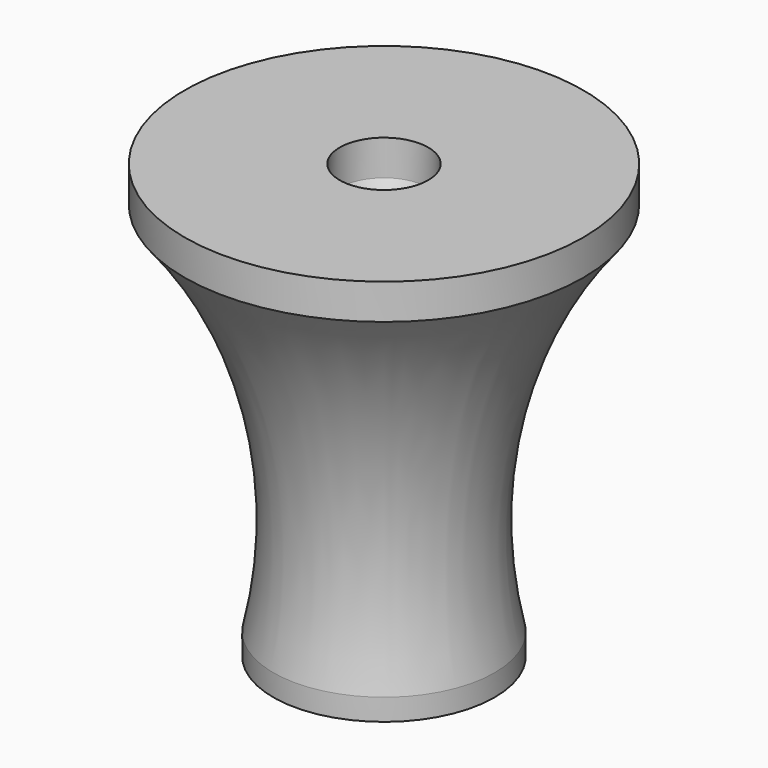
from build123d import *

# Parameters (mm, degrees)
F3_DEPTH  = 4.9
F4_R      = 20
F4_R_2    = 4
F5_DEPTH  = 4.9
F6_DEPTH  = 8
F7_R      = 17.5
F8_DEPTH  = 10
F10_DEPTH = 5


with BuildPart() as f2:
    # F0 (on Front) → F2 (revolve)
    with BuildSketch(Plane.XZ):
        with BuildLine():
            Line((4, 0), (25, 0))
            ThreePointArc((25, 0), (25.0633115181, 44.8380443487), (45, 85))
            Line((45, 85), (10, 85))
            ThreePointArc((10, 85), (5.5209994492, 72.8549601322), (4, 60))
            Line((4, 60), (4, 0))
        make_face()
    revolve(axis=Axis((0, 0, 25.1682717353), (0, 0, 1)))

    # F3 (add): a face of the model
    f3_faces = [f2.faces().sort_by_distance(p)[0] for p in [
        (-4.7071067812, 0, 0),
    ]]
    extrude(f3_faces, amount=F3_DEPTH)

    # F4 (on face) → F5 (cut)
    with BuildSketch(Plane(origin=(0, 0, -4.9), x_dir=(1, 0, 0), z_dir=(0, 0, -1))):
        Circle(F4_R)
        Circle(F4_R_2, mode=Mode.SUBTRACT)
    extrude(amount=-F5_DEPTH, mode=Mode.SUBTRACT)

    # F6 (add): a face of the model
    f6_faces = [f2.faces().sort_by_distance(p)[0] for p in [
        (-43.7272077939, 0, 85),
    ]]
    extrude(f6_faces, amount=F6_DEPTH)

    # F7 (on Top) → F8 (cut)
    with BuildSketch(Plane.XY):
        Circle(F7_R)
    extrude(amount=F8_DEPTH, mode=Mode.SUBTRACT)

    # F9 (on face) → F10 (join)
    with BuildSketch(Plane(origin=(0, 0, -4.9), x_dir=(1, 0, 0), z_dir=(0, 0, -1))):
        with BuildLine():
            ThreePointArc((2.125, -24.9095237811), (0, -25), (-2.125, -24.9095237811))
            Line((-2.125, -24.9095237811), (-2.125, -26.9095237811))
            Line((-2.125, -26.9095237811), (2.125, -26.9095237811))
            Line((2.125, -26.9095237811), (2.125, -24.9095237811))
        make_face()
    extrude(amount=-F10_DEPTH)


solid = f2.part
